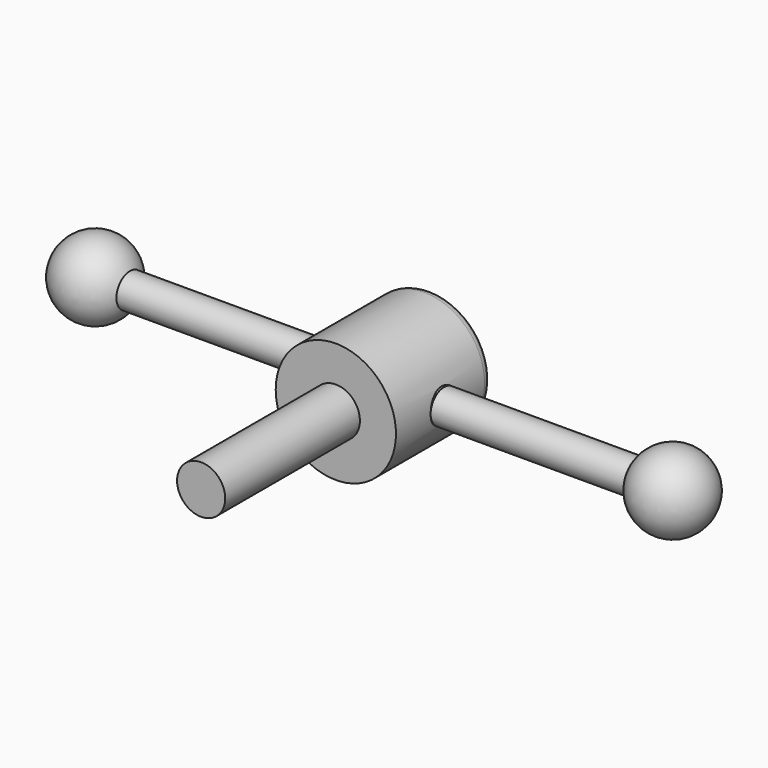
from build123d import *

# Parameters (mm, degrees)
F0_W     = 15.875
F0_H     = 15.875
F0_H_2   = 4.445
F0_W_2   = 6.35
F0_H_3   = 44.45
F3_R     = 4.445
F4_DEPTH = 31.75
F6_R     = 2.54


with BuildPart() as f1:
    # F0 (on Top) → F1 (revolve)
    with BuildSketch(Plane.XY):
        with Locations((-7.9375, 7.9375)):
            Rectangle(F0_W, F0_H)
        with Locations((-7.9375, -2.2225)):
            Rectangle(F0_W, F0_H_2)
        Polygon((0, -4.445), (-15.875, -4.445), (-15.875, -15.875), (-6.35, -15.875), (0, -15.875), align=None)
        with Locations((-3.175, -38.1)):
            Rectangle(F0_W_2, F0_H_3)
        Polygon((0, -4.445), (-15.875, -4.445), (-15.875, -15.875), (-6.35, -15.875), (0, -15.875), align=None)
    revolve(axis=Axis((0, -38.3570967242, 0), (0, -1, 0)))

    # F3 (on offset) → F4 (cut)
    with BuildSketch(Plane.YZ.offset(15.875)):
        Circle(F3_R)
    extrude(amount=-F4_DEPTH, mode=Mode.SUBTRACT)

    # F6
    f6_edges = [f1.edges().sort_by_distance(p)[0] for p in [
        (15.875, 15.875, 0),
    ]]
    fillet(f6_edges, radius=F6_R)


with BuildPart() as f5:
    # F0 (on Top) → F5 (revolve)
    with BuildSketch(Plane.XY):
        with BuildLine():
            Line((66.04, 0), (15.875, 0))
            Line((15.875, 0), (15.875, -4.445))
            Line((15.875, -4.445), (67.0639409481, -4.445))
            ThreePointArc((67.0639409481, -4.445), (78.4807060346, -9.9007060346), (86.36, 0))
            Line((86.36, 0), (66.04, 0))
        make_face()
    revolve(axis=Axis((40.9575, 0, 0), (-1, 0, 0)))


with BuildPart() as f5b:
    # F0 (on Top) → F5, piece 2 (revolve)
    with BuildSketch(Plane.XY):
        with BuildLine():
            Line((-15.875, 0), (-66.04, 0))
            Line((-66.04, 0), (-86.36, 0))
            ThreePointArc((-86.36, 0), (-78.4807060346, -9.9007060346), (-67.0639409481, -4.445))
            Line((-67.0639409481, -4.445), (-15.875, -4.445))
            Line((-15.875, -4.445), (-15.875, 0))
        make_face()
    revolve(axis=Axis((40.9575, 0, 0), (-1, 0, 0)))


solid = Compound([f1.part, f5.part, f5b.part])
